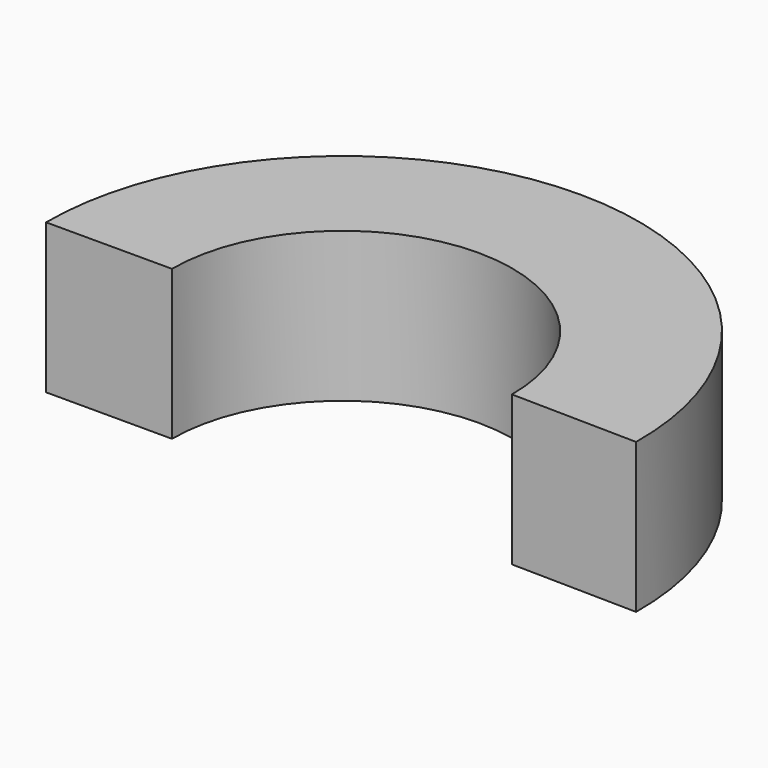
from build123d import *

# Parameters (mm, degrees)
F1_DEPTH = 25.4


with BuildPart() as f1:
    # F0 (on Top) → F1 (new body)
    with BuildSketch(Plane.XY):
        with BuildLine():
            Line((-21.368163, 0), (0, 0))
            ThreePointArc((0, 0), (28.847443, 28.973332), (57.694886, 0))
            Line((57.694886, 0), (79.063049, -0.370399))
            ThreePointArc((79.063049, -0.370399), (29.034244, 50.464565), (-21.368163, 0))
        make_face()
        with BuildLine():
            Line((-21.368163, 0), (0, 0))
            ThreePointArc((0, 0), (28.847443, 28.973332), (57.694886, 0))
            Line((57.694886, 0), (79.063049, -0.370399))
            ThreePointArc((79.063049, -0.370399), (29.034244, 50.464565), (-21.368163, 0))
        make_face()
    extrude(amount=F1_DEPTH)


solid = f1.part
